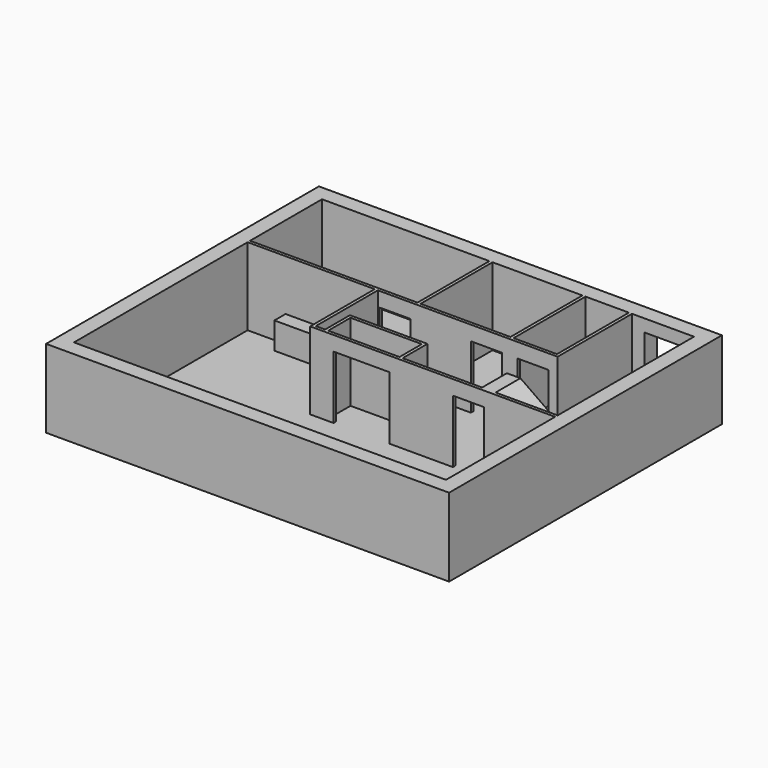
from build123d import *

# Parameters (mm, degrees)
F0_W      = 13000
F0_H      = 11000
F0_W_2    = 2300
F0_H_2    = 900
F0_W_3    = 5400
F0_H_3    = 2900
F0_W_4    = 2900
F0_W_5    = 1400
F1_DEPTH  = 2500
F2_W      = 1200
F2_H      = 2100
F3_DEPTH  = 500
F4_W      = 1000
F4_H      = 2030
F5_DEPTH  = 100
F6_W      = 1800
F6_H      = 2030
F6_W_2    = 1000
F7_DEPTH  = 100
F8_W      = 1750
F8_H      = 860
F9_DEPTH  = 450
F10_W     = 13000
F10_H     = 11000
F11_DEPTH = 25
F13_DEPTH = 1000
F15_DEPTH = 1000


with BuildPart() as f1:
    # F0 (on Top) → F1 (new body)
    with BuildSketch(Plane.XY):
        with Locations((-6500, -5500)):
            Rectangle(F0_W, F0_H)
        with Locations((-6750, -5550)):
            Rectangle(F0_W_2, F0_H_2, mode=Mode.SUBTRACT)
        Polygon((-500, -10500), (-12500, -10500), (-12500, -3500), (-8400, -3500), (-8400, -6100), (-500, -6100), align=None, mode=Mode.SUBTRACT)
        with Locations((-9800, -1950)):
            Rectangle(F0_W_3, F0_H_3, mode=Mode.SUBTRACT)
        Polygon((-8300, -6000), (-8300, -3500), (-2500, -3500), (-2500, -500), (-500, -500), (-500, -6000), (-5500, -6000), (-5500, -5000), (-8000, -5000), (-8000, -6000), align=None, mode=Mode.SUBTRACT)
        with Locations((-5550, -1950)):
            Rectangle(F0_W_4, F0_H_3, mode=Mode.SUBTRACT)
        with Locations((-3300, -1950)):
            Rectangle(F0_W_5, F0_H_3, mode=Mode.SUBTRACT)
    extrude(amount=F1_DEPTH)

    # F2 (on face) → F3 (cut, through all)
    with BuildSketch(Plane.XZ.offset(500)):
        with Locations((-1500, 1050)):
            Rectangle(F2_W, F2_H)
    extrude(amount=-F3_DEPTH, mode=Mode.SUBTRACT)

    # F4 (on face) → F5 (cut, through all)
    with BuildSketch(Plane(origin=(0, -3400, 0), x_dir=(-1, 0, 0), z_dir=(0, 1, 0))):
        with Locations((3300, 1015)):
            Rectangle(F4_W, F4_H)
        with Locations((4800, 1015)):
            Rectangle(F4_W, F4_H)
        with Locations((7750, 1015)):
            Rectangle(F4_W, F4_H)
    extrude(amount=-F5_DEPTH, mode=Mode.SUBTRACT)

    # F6 (on face) → F7 (cut, through all)
    with BuildSketch(Plane.XZ.offset(6100)):
        with Locations((-6750, 1015)):
            Rectangle(F6_W, F6_H)
        with Locations((-3300, 1015)):
            Rectangle(F6_W_2, F6_H)
    extrude(amount=-F7_DEPTH, mode=Mode.SUBTRACT)

    # F8 (on face) → F9 (join)
    with BuildSketch(Plane.XZ.offset(3500)):
        with Locations((-10400, 430)):
            Rectangle(F8_W, F8_H)
    extrude(amount=F9_DEPTH)

    # F10 (on face) → F11 (join)
    with BuildSketch(Plane(origin=(0, 0, 0), x_dir=(1, 0, 0), z_dir=(0, 0, -1))):
        with Locations((-6500, 5500)):
            Rectangle(F10_W, F10_H)
    extrude(amount=F11_DEPTH)

    # F12 (on face) → F13 (join)
    with BuildSketch(Plane(origin=(-500, 0, 0), x_dir=(0, -1, 0), z_dir=(-1, 0, 0))):
        Polygon((2500, 0), (6000, 0), (6000, 1800), (5000, 1800), align=None)
    extrude(amount=F13_DEPTH)

    # F14 (on face) → F15 (join)
    with BuildSketch(Plane(origin=(0, -6000, 0), x_dir=(-1, 0, 0), z_dir=(0, 1, 0))):
        Polygon((2500, 2500), (1500, 1800), (1500, 1494.83611), (2935.948415, 2500), align=None)
    extrude(amount=F15_DEPTH)


solid = f1.part
